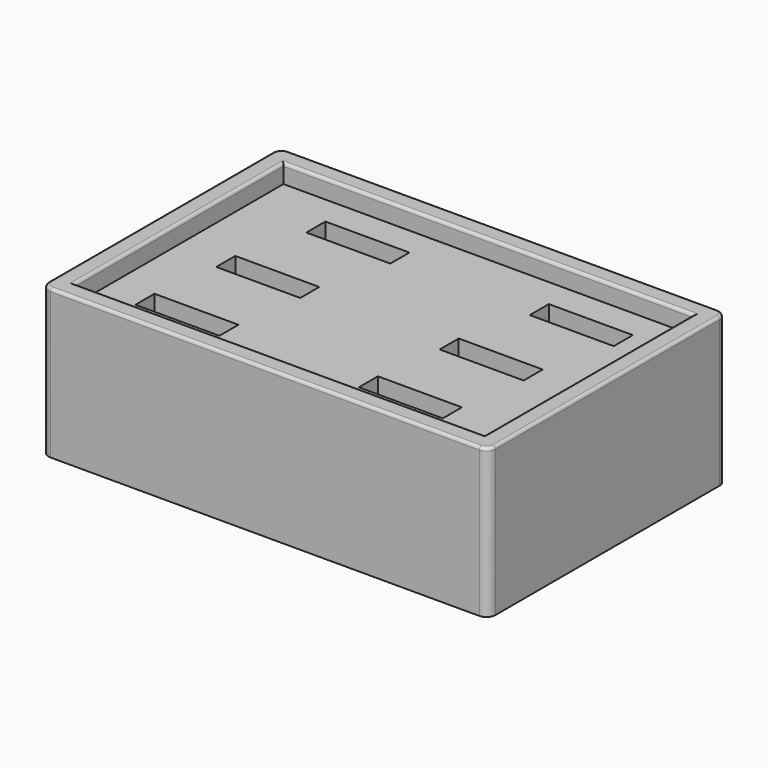
from build123d import *

# Parameters (mm, degrees)
F0_W     = 38.1
F0_H     = 25.4
F1_DEPTH = 12.7
F2_W     = 34.925
F2_H     = 22.225
F3_DEPTH = 1.5875
F4_R     = 0.762
F5_R     = 0.254
F6_W     = 7.1628
F6_H     = 2.032
F7_DEPTH = 25.4


with BuildPart() as f1:
    # F0 (on Top) → F1 (new body)
    with BuildSketch(Plane.XY):
        Rectangle(F0_W, F0_H)
    extrude(amount=F1_DEPTH)

    # F2 (on face) → F3 (cut)
    with BuildSketch(Plane.XY.offset(12.7)):
        Rectangle(F2_W, F2_H)
    extrude(amount=-F3_DEPTH, mode=Mode.SUBTRACT)

    # F4
    f4_edges = [f1.edges().sort_by_distance(p)[0] for p in [
        (-19.05, -12.7, 6.35),
        (-19.05, 12.7, 6.35),
        (19.05, 12.7, 6.35),
        (19.05, -12.7, 6.35),
    ]]
    fillet(f4_edges, radius=F4_R)

    # F5
    f5_edges = [f1.edges().sort_by_distance(p)[0] for p in [
        (0, 12.7, 12.7),
        (18.826815, 12.476815, 12.7),
        (-18.826815, 12.476815, 12.7),
        (19.05, 0, 12.7),
        (-19.05, 0, 12.7),
        (18.826815, -12.476815, 12.7),
        (-18.826815, -12.476815, 12.7),
        (0, -12.7, 12.7),
        (0, 11.1125, 12.7),
        (-17.4625, 0, 12.7),
        (0, -11.1125, 12.7),
        (17.4625, 0, 12.7),
    ]]
    fillet(f5_edges, radius=F5_R)

    # F6 (on Top) → F7 (cut)
    with BuildSketch(Plane.XY):
        with Locations((-10.7061, -7.62)):
            Rectangle(F6_W, F6_H)
        with Locations((-9.91108, 0)):
            Rectangle(F6_W, F6_H)
        with Locations((-8.32358, 7.62)):
            Rectangle(F6_W, F6_H)
        with Locations((9.13892, 0)):
            Rectangle(F6_W, F6_H)
        with Locations((8.3439, -7.62)):
            Rectangle(F6_W, F6_H)
        with Locations((10.72642, 7.62)):
            Rectangle(F6_W, F6_H)
    extrude(amount=F7_DEPTH, mode=Mode.SUBTRACT)


solid = f1.part
